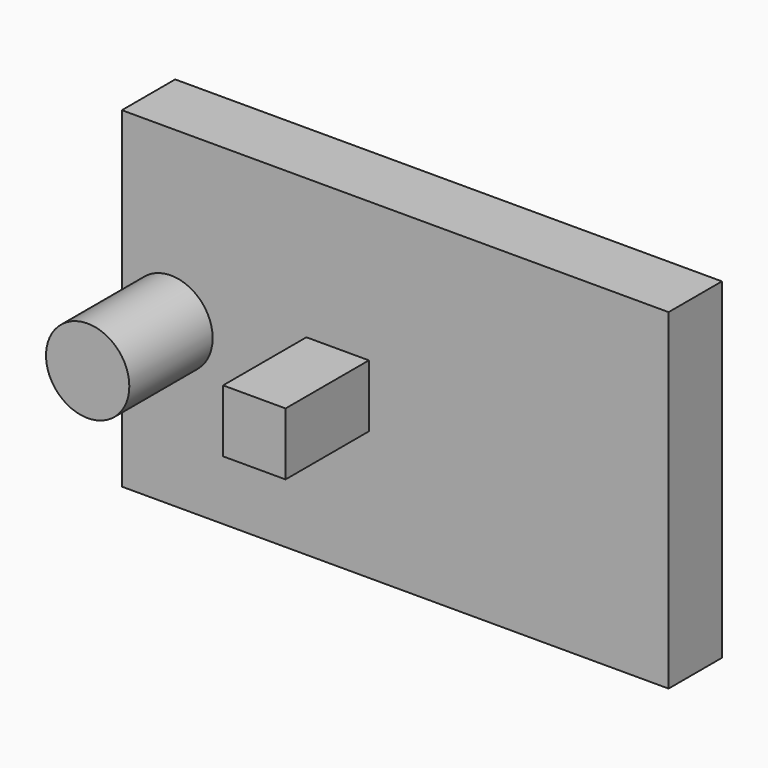
from build123d import *

# Parameters (mm, degrees)
F1_W     = 166.656778
F1_H     = 101.026456
F2_DEPTH = 20.32
F0_R     = 12.7
F3_DEPTH = 52.07


with BuildPart() as f2:
    # F1 (on Front) → F2 (new body)
    with BuildSketch(Plane.XZ):
        with Locations((-14.195323, 1.659194)):
            Rectangle(F1_W, F1_H)
    extrude(amount=F2_DEPTH)


with BuildPart() as f3:
    # F0 (on Front) → F3 (new body)
    with BuildSketch(Plane.XZ):
        with Locations((-82.55, 0)):
            Circle(F0_R)
        Polygon((-22.225, -9.525), (-22.225, 0), (-31.75, 0), (-41.275, 0), (-41.275, -9.525), align=None)
        Polygon((-31.75, 0), (-22.225, 0), (-22.225, 9.525), (-41.275, 9.525), (-41.275, 0), align=None)
    extrude(amount=F3_DEPTH)


solid = Compound([f2.part, f3.part])
